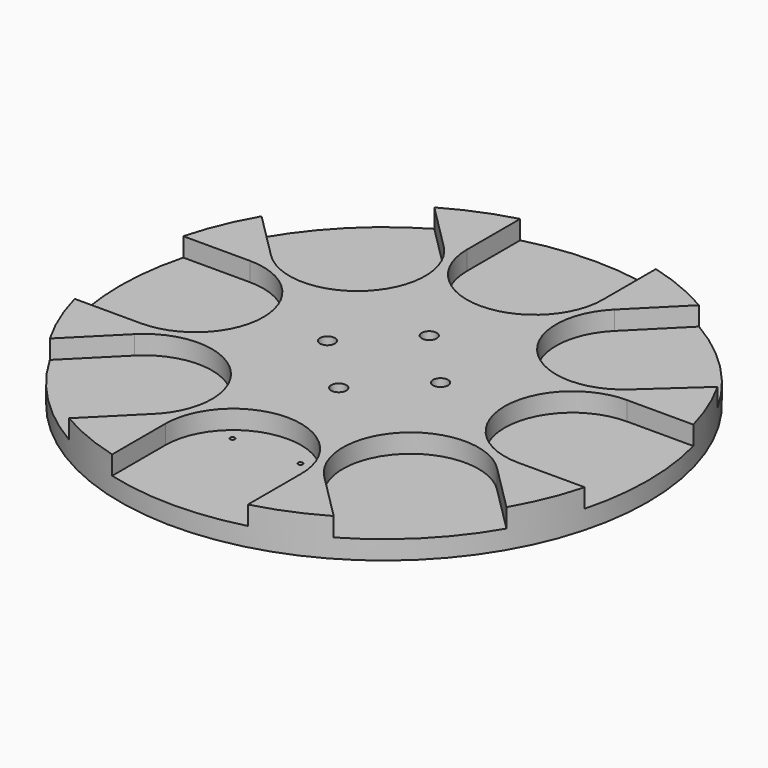
from build123d import *

# Parameters (mm, degrees)
F0_R     = 140
F1_DEPTH = 20
F3_DEPTH = 10
F4_R     = 1.25
F5_DEPTH = 10.001
F6_R     = 4
F7_DEPTH = 20.001


with BuildPart() as f1:
    # F0 (on Top) → F1 (new body)
    with BuildSketch(Plane.XY):
        Circle(F0_R)
    extrude(amount=F1_DEPTH)

    # F2 (on face) → F3 (cut)
    with BuildSketch(Plane.XY.offset(20)):
        with BuildLine():
            Line((-36, 135.2922762023), (-36, 100))
            ThreePointArc((-36, 100), (0, 64), (36, 100))
            Line((36, 100), (36, 135.2922762023))
            ThreePointArc((36, 135.2922762023), (0, 140), (-36, 135.2922762023))
        make_face()
        with BuildLine():
            Line((70.2102418221, 121.1219300675), (45.2548339959, 96.1665222414))
            ThreePointArc((45.2548339959, 96.1665222414), (44.6678642757, 45.8556615799), (94.9513362933, 44.0950719587))
            Line((94.9513362933, 44.0950719587), (121.9787816378, 68.7108203281))
            ThreePointArc((121.9787816378, 68.7108203281), (99.6036459707, 98.382486802), (70.2102418221, 121.1219300675))
        make_face()
        with BuildLine():
            Line((-70.2376639838, -121.1060302301), (-46.3264134966, -97.1947797428))
            ThreePointArc((-46.3264134966, -97.1947797428), (-44.7351788606, -45.7853207833), (-96.1665222414, -45.2548339959))
            Line((-96.1665222414, -45.2548339959), (-121.1219300675, -70.2102418221))
            ThreePointArc((-121.1219300675, -70.2102418221), (-99.0061557596, -98.9837417039), (-70.2376639838, -121.1060302301))
        make_face()
        with BuildLine():
            Line((135.2922762023, 36), (100, 36))
            ThreePointArc((100, 36), (64, 0), (100, -36))
            Line((100, -36), (135.2922762023, -36))
            ThreePointArc((135.2922762023, -36), (140, 0), (135.2922762023, 36))
        make_face()
        with BuildLine():
            Line((-135.2922762023, -36), (-100, -36))
            ThreePointArc((-100, -36), (-64, 0), (-100, 36))
            Line((-100, 36), (-135.2922762023, 36))
            ThreePointArc((-135.2922762023, 36), (-140, 0), (-135.2922762023, -36))
        make_face()
        with BuildLine():
            Line((36, -135.2922762023), (36, -100))
            ThreePointArc((36, -100), (0, -64), (-36, -100))
            Line((-36, -100), (-36, -135.2922762023))
            ThreePointArc((-36, -135.2922762023), (0, -140), (36, -135.2922762023))
        make_face()
        with BuildLine():
            Line((121.1219300675, -70.2102418221), (96.1665222414, -45.2548339959))
            ThreePointArc((96.1665222414, -45.2548339959), (45.2548339959, -45.2548339959), (45.2548339959, -96.1665222414))
            Line((45.2548339959, -96.1665222414), (70.2102418221, -121.1219300675))
            ThreePointArc((70.2102418221, -121.1219300675), (98.9949493661, -98.9949493661), (121.1219300675, -70.2102418221))
        make_face()
        with BuildLine():
            Line((-121.1219300675, 70.2102418221), (-96.1665222414, 45.2548339959))
            ThreePointArc((-96.1665222414, 45.2548339959), (-45.2548339959, 45.2548339959), (-45.2548339959, 96.1665222414))
            Line((-45.2548339959, 96.1665222414), (-70.2102418221, 121.1219300675))
            ThreePointArc((-70.2102418221, 121.1219300675), (-98.9949493661, 98.9949493661), (-121.1219300675, 70.2102418221))
        make_face()
    extrude(amount=-F3_DEPTH, mode=Mode.SUBTRACT)

    # F4 (on face) → F5 (cut, through all)
    with BuildSketch(Plane.XY.offset(10)):
        with Locations((-18, -77.9487010796)):
            Circle(F4_R)
        with Locations((18, -77.9487010796)):
            Circle(F4_R)
    extrude(amount=-F5_DEPTH, mode=Mode.SUBTRACT)

    # F6 (on face) → F7 (cut, through all)
    with BuildSketch(Plane.XY.offset(20)):
        with Locations((30, 0)):
            Circle(F6_R)
        with Locations((0, -30)):
            Circle(F6_R)
        with Locations((-30, 0)):
            Circle(F6_R)
        with Locations((0, 30)):
            Circle(F6_R)
    extrude(amount=-F7_DEPTH, mode=Mode.SUBTRACT)


solid = f1.part
